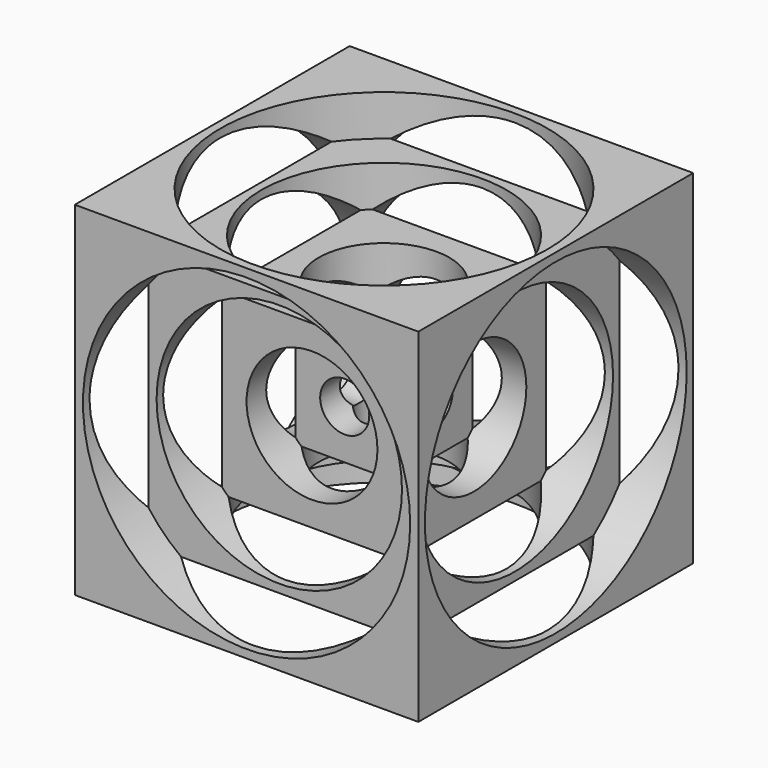
from build123d import *

# Parameters (mm, degrees)
F0_W      = 42
F0_H      = 42
F0_R      = 3
F1_DEPTH  = 42
F2_R      = 20
F2_R_2    = 15
F3_DEPTH  = 5
F2_R_3    = 8
F4_DEPTH  = 10
F2_R_4    = 3
F5_DEPTH  = 15
F6_R      = 20
F6_R_2    = 15
F7_DEPTH  = 5
F6_R_3    = 8
F8_DEPTH  = 10
F6_R_4    = 3
F9_DEPTH  = 15
F10_DEPTH = 42
F11_R     = 20
F11_R_2   = 15
F12_DEPTH = 5
F11_R_3   = 8
F13_DEPTH = 10
F11_R_4   = 3
F14_DEPTH = 15
F15_R     = 20
F15_R_2   = 15
F16_DEPTH = 5
F15_R_3   = 8
F17_DEPTH = 10
F15_R_4   = 3
F18_DEPTH = 15
F19_R     = 20
F19_R_2   = 15
F20_DEPTH = 5
F19_R_3   = 8
F21_DEPTH = 10
F19_R_4   = 3
F22_DEPTH = 15
F23_DEPTH = 42
F24_R     = 20
F24_R_2   = 15
F25_DEPTH = 5
F24_R_3   = 8
F26_DEPTH = 10
F24_R_4   = 3
F27_DEPTH = 15


with BuildPart() as f1:
    # F0 (on Front) → F1 (new body)
    with BuildSketch(Plane.XZ):
        Rectangle(F0_W, F0_H)
        Circle(F0_R, mode=Mode.SUBTRACT)
    extrude(amount=F1_DEPTH)

    # F2 (on face) → F3 (cut)
    with BuildSketch(Plane.XZ.offset(42)):
        Circle(F2_R)
        Circle(F2_R_2, mode=Mode.SUBTRACT)
    extrude(amount=-F3_DEPTH, mode=Mode.SUBTRACT)

    # F2 (on face) → F4 (cut)
    with BuildSketch(Plane.XZ.offset(42)):
        Circle(F2_R_2)
        Circle(F2_R_3, mode=Mode.SUBTRACT)
    extrude(amount=-F4_DEPTH, mode=Mode.SUBTRACT)

    # F2 (on face) → F5 (cut)
    with BuildSketch(Plane.XZ.offset(42)):
        Circle(F2_R_3)
        Circle(F2_R_4, mode=Mode.SUBTRACT)
    extrude(amount=-F5_DEPTH, mode=Mode.SUBTRACT)

    # F6 (on face) → F7 (cut)
    with BuildSketch(Plane(origin=(-21, 0, 0), x_dir=(0, -1, 0), z_dir=(-1, 0, 0))):
        with Locations((21, 0)):
            Circle(F6_R)
        with Locations((21, 0)):
            Circle(F6_R_2, mode=Mode.SUBTRACT)
    extrude(amount=-F7_DEPTH, mode=Mode.SUBTRACT)

    # F6 (on face) → F8 (cut)
    with BuildSketch(Plane(origin=(-21, 0, 0), x_dir=(0, -1, 0), z_dir=(-1, 0, 0))):
        with Locations((21, 0)):
            Circle(F6_R_2)
        with Locations((21, 0)):
            Circle(F6_R_3, mode=Mode.SUBTRACT)
    extrude(amount=-F8_DEPTH, mode=Mode.SUBTRACT)

    # F6 (on face) → F9 (cut)
    with BuildSketch(Plane(origin=(-21, 0, 0), x_dir=(0, -1, 0), z_dir=(-1, 0, 0))):
        with Locations((21, 0)):
            Circle(F6_R_3)
        with Locations((21, 0)):
            Circle(F6_R_4, mode=Mode.SUBTRACT)
    extrude(amount=-F9_DEPTH, mode=Mode.SUBTRACT)

    # F6 (on face) → F10 (cut)
    with BuildSketch(Plane(origin=(-21, 0, 0), x_dir=(0, -1, 0), z_dir=(-1, 0, 0))):
        with Locations((21, 0)):
            Circle(F6_R_4)
    extrude(amount=-F10_DEPTH, mode=Mode.SUBTRACT)

    # F11 (on face) → F12 (cut)
    with BuildSketch(Plane(origin=(0, 0, 0), x_dir=(-1, 0, 0), z_dir=(0, 1, 0))):
        Circle(F11_R)
        Circle(F11_R_2, mode=Mode.SUBTRACT)
    extrude(amount=-F12_DEPTH, mode=Mode.SUBTRACT)

    # F11 (on face) → F13 (cut)
    with BuildSketch(Plane(origin=(0, 0, 0), x_dir=(-1, 0, 0), z_dir=(0, 1, 0))):
        Circle(F11_R_2)
        Circle(F11_R_3, mode=Mode.SUBTRACT)
    extrude(amount=-F13_DEPTH, mode=Mode.SUBTRACT)

    # F11 (on face) → F14 (cut)
    with BuildSketch(Plane(origin=(0, 0, 0), x_dir=(-1, 0, 0), z_dir=(0, 1, 0))):
        Circle(F11_R_3)
        Circle(F11_R_4, mode=Mode.SUBTRACT)
    extrude(amount=-F14_DEPTH, mode=Mode.SUBTRACT)

    # F15 (on face) → F16 (cut)
    with BuildSketch(Plane.YZ.offset(21)):
        with Locations((-21, 0)):
            Circle(F15_R)
        with Locations((-21, 0)):
            Circle(F15_R_2, mode=Mode.SUBTRACT)
    extrude(amount=-F16_DEPTH, mode=Mode.SUBTRACT)

    # F15 (on face) → F17 (cut)
    with BuildSketch(Plane.YZ.offset(21)):
        with Locations((-21, 0)):
            Circle(F15_R_2)
        with Locations((-21, 0)):
            Circle(F15_R_3, mode=Mode.SUBTRACT)
    extrude(amount=-F17_DEPTH, mode=Mode.SUBTRACT)

    # F15 (on face) → F18 (cut)
    with BuildSketch(Plane.YZ.offset(21)):
        with Locations((-21, 0)):
            Circle(F15_R_3)
        with Locations((-21, 0)):
            Circle(F15_R_4, mode=Mode.SUBTRACT)
    extrude(amount=-F18_DEPTH, mode=Mode.SUBTRACT)

    # F19 (on face) → F20 (cut)
    with BuildSketch(Plane.XY.offset(21)):
        with Locations((0, -21)):
            Circle(F19_R)
        with Locations((0, -21)):
            Circle(F19_R_2, mode=Mode.SUBTRACT)
    extrude(amount=-F20_DEPTH, mode=Mode.SUBTRACT)

    # F19 (on face) → F21 (cut)
    with BuildSketch(Plane.XY.offset(21)):
        with Locations((0, -21)):
            Circle(F19_R_2)
        with Locations((0, -21)):
            Circle(F19_R_3, mode=Mode.SUBTRACT)
    extrude(amount=-F21_DEPTH, mode=Mode.SUBTRACT)

    # F19 (on face) → F22 (cut)
    with BuildSketch(Plane.XY.offset(21)):
        with Locations((0, -21)):
            Circle(F19_R_3)
        with Locations((0, -21)):
            Circle(F19_R_4, mode=Mode.SUBTRACT)
    extrude(amount=-F22_DEPTH, mode=Mode.SUBTRACT)

    # F19 (on face) → F23 (cut)
    with BuildSketch(Plane.XY.offset(21)):
        with Locations((0, -21)):
            Circle(F19_R_4)
    extrude(amount=-F23_DEPTH, mode=Mode.SUBTRACT)

    # F24 (on face) → F25 (cut)
    with BuildSketch(Plane(origin=(0, 0, -21), x_dir=(1, 0, 0), z_dir=(0, 0, -1))):
        with Locations((0, 21)):
            Circle(F24_R)
        with Locations((0, 21)):
            Circle(F24_R_2, mode=Mode.SUBTRACT)
    extrude(amount=-F25_DEPTH, mode=Mode.SUBTRACT)

    # F24 (on face) → F26 (cut)
    with BuildSketch(Plane(origin=(0, 0, -21), x_dir=(1, 0, 0), z_dir=(0, 0, -1))):
        with Locations((0, 21)):
            Circle(F24_R_2)
        with Locations((0, 21)):
            Circle(F24_R_3, mode=Mode.SUBTRACT)
    extrude(amount=-F26_DEPTH, mode=Mode.SUBTRACT)

    # F24 (on face) → F27 (cut)
    with BuildSketch(Plane(origin=(0, 0, -21), x_dir=(1, 0, 0), z_dir=(0, 0, -1))):
        with Locations((0, 21)):
            Circle(F24_R_3)
        with Locations((0, 21)):
            Circle(F24_R_4, mode=Mode.SUBTRACT)
    extrude(amount=-F27_DEPTH, mode=Mode.SUBTRACT)


solid = f1.part
